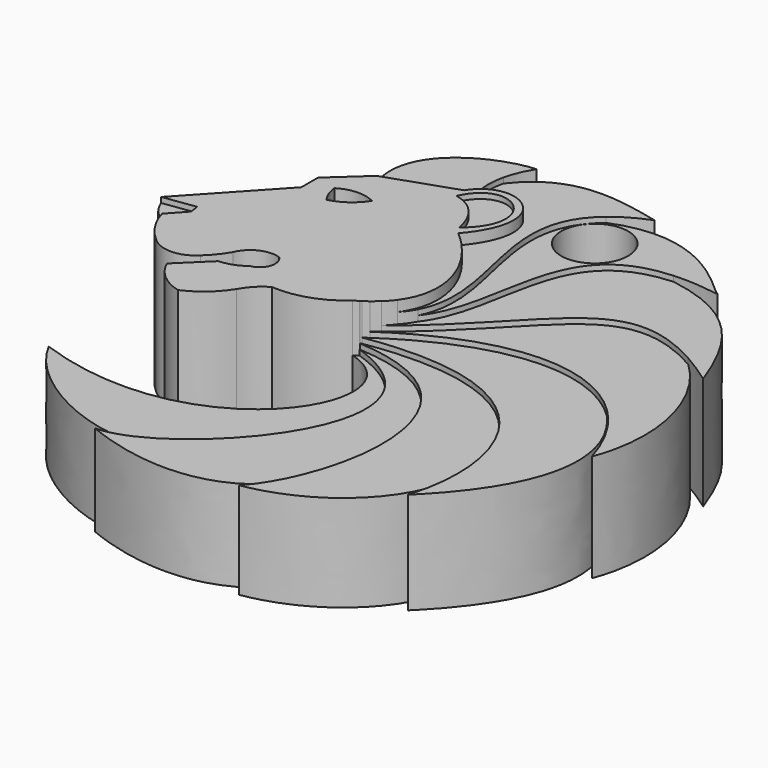
from build123d import *

# Parameters (mm, degrees)
F1_DEPTH  = 12.7
F2_DEPTH  = 12.192
F3_DEPTH  = 11.684
F4_DEPTH  = 11.176
F5_DEPTH  = 10.668
F6_DEPTH  = 10.16
F7_DEPTH  = 9.652
F8_DEPTH  = 9.144
F9_DEPTH  = 8.636
F10_DEPTH = 8.128
F11_D     = 6.35


with BuildPart() as f1:
    # F0 (on Top) → F1 (new body)
    with BuildSketch(Plane.XY):
        with BuildLine():
            add(Edge.make_bspline(
                [(-11.1693879589, 15.4890585691), (-9.0358910772, 16.2586414566), (-6.7933175268, 16.9602932942), (-4.659820645, 17.7298761817)],
                knots=[0, 0, 0, 0, 6.8844556929, 6.8844556929, 6.8844556929, 6.8844556929], degree=3))
            Line((-11.1693879589, 15.4890585691), (-14.3835674971, 12.5592015684))
            Line((-14.3835674971, 12.5592015684), (-14.3835674971, 10.5829806998))
            Line((-14.3835674971, 10.5829806998), (-21.5118955821, 2.8857458383))
            Line((-21.5118955821, 2.8857458383), (-18.4390414506, 3.3162669279))
            Line((-18.4390414506, 3.3162669279), (-18.3163823931, 2.4407850974))
            Line((-18.3163823931, 2.4407850974), (-19.7817664593, 0.8340470376))
            ThreePointArc((-19.7817664593, 0.8340470376), (-18.9497116823, -1.0488754983), (-17.610553652, -2.6123230346))
            ThreePointArc((-17.610553652, -2.6123230346), (-15.499651432, -3.497126983), (-13.388749212, -2.6123230346))
            ThreePointArc((-13.388749212, -2.6123230346), (-12.5397901674, -1.709795899), (-11.8357986212, -0.6901476299))
            ThreePointArc((-11.8357986212, -0.6901476299), (-10.5444813794, 0.6812587375), (-8.6651379243, 0.8090234478))
            ThreePointArc((-8.6651379243, 0.8090234478), (-8.293640826, -0.6607608558), (-9.4419417778, -1.6505491751))
            ThreePointArc((-9.4419417778, -1.6505491751), (-10.5476881458, -2.2643849988), (-11.7867775261, -2.5176180061))
            Line((-11.7867775261, -2.5176180061), (-14.5161636174, -5.1738950424))
            ThreePointArc((-14.5161636174, -5.1738950424), (-13.1968200936, -6.967613879), (-11.2220747396, -7.9964362085))
            ThreePointArc((-11.2220747396, -7.9964362085), (-9.3711934706, -6.8305509921), (-7.9427184537, -5.1738950424))
            ThreePointArc((-7.9427184537, -5.1738950424), (-7.1541259896, -4.0931748847), (-6.1024632305, -3.2662289525))
            ThreePointArc((-6.1024632305, -3.2662289525), (-2.8894966909, -2.8618967872), (-0.0919760266, -1.2307877726))
            add(Edge.make_bspline(
                [(-0.0919760266, -1.2307877726), (0.0699429497, -1.141482147), (0.2259351315, -1.0498688773), (0.3761062108, -0.9560615263)],
                knots=[0, 0, 0, 0, 0.3704004937, 0.3704004937, 0.3704004937, 0.3704004937], degree=3))
            add(Edge.make_bspline(
                [(0.3761062108, -0.9560615263), (0.3883062967, -0.9484405), (0.4004679626, -0.9408049925), (0.4125912651, -0.9331550645)],
                knots=[0.3704004937, 0.3704004937, 0.3704004937, 0.3704004937, 0.4004922923, 0.4004922923, 0.4004922923, 0.4004922923], degree=3))
            add(Edge.make_bspline(
                [(0.4125912651, -0.9331550645), (0.4528922713, -0.9077247172), (0.4927693348, -0.8821350148), (0.5322245374, -0.8563881943)],
                knots=[0.4004922923, 0.4004922923, 0.4004922923, 0.4004922923, 0.5005252467, 0.5005252467, 0.5005252467, 0.5005252467], degree=3))
            add(Edge.make_bspline(
                [(0.5322245374, -0.8563881943), (0.6959719522, -0.7495334573), (0.8524531288, -0.6399724786), (1.001816889, -0.5278651631)],
                knots=[0.5005252467, 0.5005252467, 0.5005252467, 0.5005252467, 0.9156831125, 0.9156831125, 0.9156831125, 0.9156831125], degree=3))
            add(Edge.make_bspline(
                [(1.001816889, -0.5278651631), (1.2344644923, -0.3532478514), (1.4498446115, -0.1724529005), (1.6485196218, 0.013915433)],
                knots=[0.9156831125, 0.9156831125, 0.9156831125, 0.9156831125, 1.5623291421, 1.5623291421, 1.5623291421, 1.5623291421], degree=3))
            add(Edge.make_bspline(
                [(1.6485196218, 0.013915433), (1.9589471774, 0.3051139392), (2.2285913403, 0.609919148), (2.4595973579, 0.9260260512)],
                knots=[1.5623291421, 1.5623291421, 1.5623291421, 1.5623291421, 2.5727065721, 2.5727065721, 2.5727065721, 2.5727065721], degree=3))
            add(Edge.make_bspline(
                [(2.4595973579, 0.9260260512), (4.9169838602, 4.2886953234), (3.0020032204, 8.9302861461), (-0.70291844, 12.0760537147)],
                knots=[2.5727065721, 2.5727065721, 2.5727065721, 2.5727065721, 13.3208588687, 13.3208588687, 13.3208588687, 13.3208588687], degree=3))
            add(Edge.make_bspline(
                [(-4.1627329755, 18.3724410466), (-1.4652454689, 21.1664148462), (4.1037596626, 17.742056332), (-0.70291844, 12.0760537147)],
                knots=[0.7954504812, 0.7954504812, 0.7954504812, 0.7954504812, 6.4608818518, 6.4608818518, 6.4608818518, 6.4608818518], degree=3))
            add(Edge.make_bspline(
                [(-4.659820645, 17.7298761817), (-4.5094891562, 17.9724617565), (-4.3424866212, 18.1862578019), (-4.1627329755, 18.3724410466)],
                knots=[0.4179206721, 0.4179206721, 0.4179206721, 0.4179206721, 0.7954504812, 0.7954504812, 0.7954504812, 0.7954504812], degree=3))
        make_face()
        with BuildLine():
            ThreePointArc((-8.9354161173, 12.14926783), (-10.1114133681, 10.8988357541), (-11.6711296141, 10.1820128039))
            ThreePointArc((-11.6711296141, 10.1820128039), (-12.1581752342, 11.0421462364), (-12.378112413, 12.0058218017))
            ThreePointArc((-12.378112413, 12.0058218017), (-10.6755355616, 12.5280548335), (-8.9354161173, 12.14926783))
        make_face(mode=Mode.SUBTRACT)
        with BuildLine():
            add(Edge.make_bspline(
                [(-4.5604612678, 16.6730117053), (-2.4926392362, 16.2594467402), (-1.5104233753, 14.4501030445), (-1.2347139418, 12.8303095698)],
                knots=[0, 0, 0, 0, 5.0820227251, 5.0820227251, 5.0820227251, 5.0820227251], degree=3))
            add(Edge.make_bspline(
                [(-4.5604612678, 16.6730117053), (-2.3030887824, 21.5151626617), (3.5729722586, 16.7764034122), (-1.2347139418, 12.8303095698)],
                knots=[0, 0, 0, 0, 5.0820227251, 5.0820227251, 5.0820227251, 5.0820227251], degree=3))
        make_face(mode=Mode.SUBTRACT)
    extrude(amount=F1_DEPTH)

    # F0 (on Top) → F2 (join)
    with BuildSketch(Plane.XY):
        with BuildLine():
            add(Edge.make_bspline(
                [(-11.1693879589, 15.4890585691), (-13.0820954219, 21.4010607451), (-6.3528451137, 24.3396740407), (-3.2055731863, 24.4787801057)],
                knots=[0, 0, 0, 0, 12.0098892185, 12.0098892185, 12.0098892185, 12.0098892185], degree=3))
            add(Edge.make_bspline(
                [(-11.1693879589, 15.4890585691), (-9.0358910772, 16.2586414566), (-6.7933175268, 16.9602932942), (-4.659820645, 17.7298761817)],
                knots=[0, 0, 0, 0, 6.8844556929, 6.8844556929, 6.8844556929, 6.8844556929], degree=3))
            add(Edge.make_bspline(
                [(-4.659820645, 17.7298761817), (-4.5094891562, 17.9724617565), (-4.3424866212, 18.1862578019), (-4.1627329755, 18.3724410466)],
                knots=[0.4179206721, 0.4179206721, 0.4179206721, 0.4179206721, 0.7954504812, 0.7954504812, 0.7954504812, 0.7954504812], degree=3))
            add(Edge.make_bspline(
                [(-4.2984893876, 21.9163451997), (-4.6150451128, 20.5448107609), (-4.4588629855, 19.353372073), (-4.1627329755, 18.3724410466)],
                knots=[2.2690149531, 2.2690149531, 2.2690149531, 2.2690149531, 6.1809005466, 6.1809005466, 6.1809005466, 6.1809005466], degree=3))
            add(Edge.make_bspline(
                [(-3.2055731863, 24.4787801057), (-3.772219094, 23.5680009015), (-4.1148772505, 22.711877706), (-4.2984893876, 21.9163451997)],
                knots=[0, 0, 0, 0, 2.2690149531, 2.2690149531, 2.2690149531, 2.2690149531], degree=3))
        make_face()
        with BuildLine():
            add(Edge.make_bspline(
                [(-4.5604612678, 16.6730117053), (-2.3030887824, 21.5151626617), (3.5729722586, 16.7764034122), (-1.2347139418, 12.8303095698)],
                knots=[0, 0, 0, 0, 5.0820227251, 5.0820227251, 5.0820227251, 5.0820227251], degree=3))
            add(Edge.make_bspline(
                [(-4.5604612678, 16.6730117053), (-2.4926392362, 16.2594467402), (-1.5104233753, 14.4501030445), (-1.2347139418, 12.8303095698)],
                knots=[0, 0, 0, 0, 5.0820227251, 5.0820227251, 5.0820227251, 5.0820227251], degree=3))
        make_face()
        with BuildLine():
            Line((-18.4390414506, 3.3162669279), (-21.5118955821, 2.8857458383))
            ThreePointArc((-21.5118955821, 2.8857458383), (-20.8413628645, 1.6958542267), (-19.7817664593, 0.8340470376))
            Line((-19.7817664593, 0.8340470376), (-18.3163823931, 2.4407850974))
            Line((-18.3163823931, 2.4407850974), (-18.4390414506, 3.3162669279))
        make_face()
    extrude(amount=F2_DEPTH)

    # F0 (on Top) → F3 (join)
    with BuildSketch(Plane.XY):
        with BuildLine():
            add(Edge.make_bspline(
                [(-4.2984893876, 21.9163451997), (-1.0731035627, 26.0543940986), (3.2028737592, 25.5064446414), (8.1157682112, 24.3074636842)],
                knots=[0, 0, 0, 0, 12.6424380297, 12.6424380297, 12.6424380297, 12.6424380297], degree=3))
            add(Edge.make_bspline(
                [(-4.2984893876, 21.9163451997), (-4.6150451128, 20.5448107609), (-4.4588629855, 19.353372073), (-4.1627329755, 18.3724410466)],
                knots=[2.2690149531, 2.2690149531, 2.2690149531, 2.2690149531, 6.1809005466, 6.1809005466, 6.1809005466, 6.1809005466], degree=3))
            add(Edge.make_bspline(
                [(-4.1627329755, 18.3724410466), (-1.4652454689, 21.1664148462), (4.1037596626, 17.742056332), (-0.70291844, 12.0760537147)],
                knots=[0.7954504812, 0.7954504812, 0.7954504812, 0.7954504812, 6.4608818518, 6.4608818518, 6.4608818518, 6.4608818518], degree=3))
            add(Edge.make_bspline(
                [(2.4595973579, 0.9260260512), (4.9169838602, 4.2886953234), (3.0020032204, 8.9302861461), (-0.70291844, 12.0760537147)],
                knots=[2.5727065721, 2.5727065721, 2.5727065721, 2.5727065721, 13.3208588687, 13.3208588687, 13.3208588687, 13.3208588687], degree=3))
            add(Edge.make_bspline(
                [(3.3733097851, 2.2130509925), (3.136478382, 1.7636919725), (2.8356580969, 1.3336096562), (2.4595973579, 0.9260260512)],
                knots=[22.5252529023, 22.5252529023, 22.5252529023, 22.5252529023, 24.0558494863, 24.0558494863, 24.0558494863, 24.0558494863], degree=3))
            add(Edge.make_bspline(
                [(4.9703974099, 22.5029311557), (-1.3523527806, 17.2353144741), (6.4658384171, 8.080751039), (3.3733097851, 2.2130509925)],
                knots=[2.5388250169, 2.5388250169, 2.5388250169, 2.5388250169, 22.5252529023, 22.5252529023, 22.5252529023, 22.5252529023], degree=3))
            add(Edge.make_bspline(
                [(8.1157682112, 24.3074636842), (6.8049009655, 23.7784753398), (5.7735602588, 23.172063083), (4.9703974099, 22.5029311557)],
                knots=[0, 0, 0, 0, 2.5388250169, 2.5388250169, 2.5388250169, 2.5388250169], degree=3))
        make_face()
    extrude(amount=F3_DEPTH)

    # F0 (on Top) → F4 (join)
    with BuildSketch(Plane.XY):
        with BuildLine():
            add(Edge.make_bspline(
                [(4.9703974099, 22.5029311557), (12.5885411188, 25.6601708268), (17.6701238379, 19.0747547895), (18.564947193, 18.7362164876)],
                knots=[0, 0, 0, 0, 14.1067332574, 14.1067332574, 14.1067332574, 14.1067332574], degree=3))
            add(Edge.make_bspline(
                [(4.9703974099, 22.5029311557), (-1.3523527806, 17.2353144741), (6.4658384171, 8.080751039), (3.3733097851, 2.2130509925)],
                knots=[2.5388250169, 2.5388250169, 2.5388250169, 2.5388250169, 22.5252529023, 22.5252529023, 22.5252529023, 22.5252529023], degree=3))
            add(Edge.make_bspline(
                [(14.170598163, 19.0099079182), (3.8144224279, 18.4202500881), (7.4430683048, 7.3284264398), (3.3733097851, 2.2130509925)],
                knots=[2.4152881684, 2.4152881684, 2.4152881684, 2.4152881684, 22.4455083505, 22.4455083505, 22.4455083505, 22.4455083505], degree=3))
            add(Edge.make_bspline(
                [(18.564947193, 18.7362164876), (16.8714794963, 18.9994101905), (15.4193686955, 19.081010161), (14.170598163, 19.0099079182)],
                knots=[0, 0, 0, 0, 2.4152881684, 2.4152881684, 2.4152881684, 2.4152881684], degree=3))
        make_face()
    extrude(amount=F4_DEPTH)

    # F0 (on Top) → F5 (join)
    with BuildSketch(Plane.XY):
        with BuildLine():
            add(Edge.make_bspline(
                [(3.3733097851, 2.2130509925), (3.136478382, 1.7636919725), (2.8356580969, 1.3336096562), (2.4595973579, 0.9260260512)],
                knots=[22.5252529023, 22.5252529023, 22.5252529023, 22.5252529023, 24.0558494863, 24.0558494863, 24.0558494863, 24.0558494863], degree=3))
            add(Edge.make_bspline(
                [(1.6485196218, 0.013915433), (1.9589471774, 0.3051139392), (2.2285913403, 0.609919148), (2.4595973579, 0.9260260512)],
                knots=[1.5623291421, 1.5623291421, 1.5623291421, 1.5623291421, 2.5727065721, 2.5727065721, 2.5727065721, 2.5727065721], degree=3))
            add(Edge.make_bspline(
                [(22.6549280171, 10.1252051744), (13.0098039696, 15.5501310783), (11.389011228, 7.7025797188), (1.6485196218, 0.013915433)],
                knots=[2.1575984107, 2.1575984107, 2.1575984107, 2.1575984107, 25.310768826, 25.310768826, 25.310768826, 25.310768826], degree=3))
            add(Edge.make_bspline(
                [(25.5734730299, 8.2519464195), (24.5222316642, 8.9988705064), (23.553738156, 9.6196669998), (22.6549280171, 10.1252051744)],
                knots=[0, 0, 0, 0, 2.1575984107, 2.1575984107, 2.1575984107, 2.1575984107], degree=3))
            add(Edge.make_bspline(
                [(14.170598163, 19.0099079182), (20.1485980516, 18.0587443329), (23.2340000357, 14.8317161947), (25.5734730299, 8.2519464195)],
                knots=[0, 0, 0, 0, 15.6767117355, 15.6767117355, 15.6767117355, 15.6767117355], degree=3))
            add(Edge.make_bspline(
                [(14.170598163, 19.0099079182), (3.8144224279, 18.4202500881), (7.4430683048, 7.3284264398), (3.3733097851, 2.2130509925)],
                knots=[2.4152881684, 2.4152881684, 2.4152881684, 2.4152881684, 22.4455083505, 22.4455083505, 22.4455083505, 22.4455083505], degree=3))
        make_face()
    extrude(amount=F5_DEPTH)

    # F0 (on Top) → F6 (join)
    with BuildSketch(Plane.XY):
        with BuildLine():
            add(Edge.make_bspline(
                [(22.6549280171, 10.1252051744), (13.0098039696, 15.5501310783), (11.389011228, 7.7025797188), (1.6485196218, 0.013915433)],
                knots=[2.1575984107, 2.1575984107, 2.1575984107, 2.1575984107, 25.310768826, 25.310768826, 25.310768826, 25.310768826], degree=3))
            add(Edge.make_bspline(
                [(1.001816889, -0.5278651631), (1.2344644923, -0.3532478514), (1.4498446115, -0.1724529005), (1.6485196218, 0.013915433)],
                knots=[0.9156831125, 0.9156831125, 0.9156831125, 0.9156831125, 1.5623291421, 1.5623291421, 1.5623291421, 1.5623291421], degree=3))
            add(Edge.make_bspline(
                [(22.6325808509, 0.5549785794), (17.9641499018, 5.2059017585), (10.1420641386, 5.6621227178), (1.001816889, -0.5278651631)],
                knots=[6.8059633731, 6.8059633731, 6.8059633731, 6.8059633731, 25.9591722565, 25.9591722565, 25.9591722565, 25.9591722565], degree=3))
            add(Edge.make_bspline(
                [(26.332285884, -5.8820280246), (25.5521633694, -3.2800297818), (24.2914762476, -1.0976955495), (22.6325808509, 0.5549785794)],
                knots=[0, 0, 0, 0, 6.8059633731, 6.8059633731, 6.8059633731, 6.8059633731], degree=3))
            add(Edge.make_bspline(
                [(22.6549280171, 10.1252051744), (26.5182542383, 6.5773469396), (28.5817409634, 0), (26.332285884, -5.8820280246)],
                knots=[0, 0, 0, 0, 16.4242039555, 16.4242039555, 16.4242039555, 16.4242039555], degree=3))
        make_face()
    extrude(amount=F6_DEPTH)

    # F0 (on Top) → F7 (join)
    with BuildSketch(Plane.XY):
        with BuildLine():
            add(Edge.make_bspline(
                [(22.6325808509, 0.5549785794), (17.9641499018, 5.2059017585), (10.1420641386, 5.6621227178), (1.001816889, -0.5278651631)],
                knots=[6.8059633731, 6.8059633731, 6.8059633731, 6.8059633731, 25.9591722565, 25.9591722565, 25.9591722565, 25.9591722565], degree=3))
            add(Edge.make_bspline(
                [(0.5322245374, -0.8563881943), (0.6959719522, -0.7495334573), (0.8524531288, -0.6399724786), (1.001816889, -0.5278651631)],
                knots=[0.5005252467, 0.5005252467, 0.5005252467, 0.5005252467, 0.9156831125, 0.9156831125, 0.9156831125, 0.9156831125], degree=3))
            add(Edge.make_bspline(
                [(19.6146675695, -12.0093502607), (18.9924851882, -5.1508120753), (13.7391758946, 1.2639838238), (0.5322245374, -0.8563881943)],
                knots=[6.1189017441, 6.1189017441, 6.1189017441, 6.1189017441, 25.4194126765, 25.4194126765, 25.4194126765, 25.4194126765], degree=3))
            add(Edge.make_bspline(
                [(18.9158729205, -18.4084704199), (19.5436978026, -16.4027187125), (19.8119200086, -14.1837342142), (19.6146675695, -12.0093502607)],
                knots=[0, 0, 0, 0, 6.1189017441, 6.1189017441, 6.1189017441, 6.1189017441], degree=3))
            add(Edge.make_bspline(
                [(22.6325808509, 0.5549785794), (29.9385773434, -7.9657113008), (20.3760749588, -16.9180171618), (18.9158729205, -18.4084704199)],
                knots=[0, 0, 0, 0, 19.3242416615, 19.3242416615, 19.3242416615, 19.3242416615], degree=3))
        make_face()
    extrude(amount=F7_DEPTH)

    # F0 (on Top) → F8 (join)
    with BuildSketch(Plane.XY):
        with BuildLine():
            add(Edge.make_bspline(
                [(19.6146675695, -12.0093502607), (18.9924851882, -5.1508120753), (13.7391758946, 1.2639838238), (0.5322245374, -0.8563881943)],
                knots=[6.1189017441, 6.1189017441, 6.1189017441, 6.1189017441, 25.4194126765, 25.4194126765, 25.4194126765, 25.4194126765], degree=3))
            add(Edge.make_bspline(
                [(0.4125912651, -0.9331550645), (0.4528922713, -0.9077247172), (0.4927693348, -0.8821350148), (0.5322245374, -0.8563881943)],
                knots=[0.4004922923, 0.4004922923, 0.4004922923, 0.4004922923, 0.5005252467, 0.5005252467, 0.5005252467, 0.5005252467], degree=3))
            add(Edge.make_bspline(
                [(10.1539883978, -20.094470712), (13.1368582256, -12.9565616021), (12.8948233592, -1.643045671), (0.4125912651, -0.9331550645)],
                knots=[4.6863856747, 4.6863856747, 4.6863856747, 4.6863856747, 24.4244565784, 24.4244565784, 24.4244565784, 24.4244565784], degree=3))
            add(Edge.make_bspline(
                [(7.6046087293, -24.2747266471), (8.555754569, -23.2485714694), (9.4457693171, -21.789215612), (10.1539883978, -20.094470712)],
                knots=[0, 0, 0, 0, 4.6863856747, 4.6863856747, 4.6863856747, 4.6863856747], degree=3))
            add(Edge.make_bspline(
                [(19.6146675695, -12.0093502607), (19.5076920839, -18.4084704199), (13.8489719926, -23.2652139544), (7.6046087293, -24.2747266471)],
                knots=[0, 0, 0, 0, 17.1662742389, 17.1662742389, 17.1662742389, 17.1662742389], degree=3))
        make_face()
    extrude(amount=F8_DEPTH)

    # F0 (on Top) → F9 (join)
    with BuildSketch(Plane.XY):
        with BuildLine():
            add(Edge.make_bspline(
                [(10.1539883978, -20.094470712), (13.1368582256, -12.9565616021), (12.8948233592, -1.643045671), (0.4125912651, -0.9331550645)],
                knots=[4.6863856747, 4.6863856747, 4.6863856747, 4.6863856747, 24.4244565784, 24.4244565784, 24.4244565784, 24.4244565784], degree=3))
            add(Edge.make_bspline(
                [(0.3761062108, -0.9560615263), (0.3883062967, -0.9484405), (0.4004679626, -0.9408049925), (0.4125912651, -0.9331550645)],
                knots=[0.3704004937, 0.3704004937, 0.3704004937, 0.3704004937, 0.4004922923, 0.4004922923, 0.4004922923, 0.4004922923], degree=3))
            add(Edge.make_bspline(
                [(-4.0027434797, -22.2563676913), (3.4380167689, -18.8674841154), (13.3337408235, -5.3035885366), (0.3761062108, -0.9560615263)],
                knots=[3.0087308599, 3.0087308599, 3.0087308599, 3.0087308599, 23.2951512614, 23.2951512614, 23.2951512614, 23.2951512614], degree=3))
            add(Edge.make_bspline(
                [(-7.0688501, -23.0295002667), (-6.1558589286, -23.037779847), (-5.10630165, -22.7589816761), (-4.0027434797, -22.2563676913)],
                knots=[0, 0, 0, 0, 3.0087308599, 3.0087308599, 3.0087308599, 3.0087308599], degree=3))
            add(Edge.make_bspline(
                [(10.1539883978, -20.094470712), (5.8581745467, -26.6000382924), (-2.3815631866, -24.9686107246), (-7.0688501, -23.0295002667)],
                knots=[0, 0, 0, 0, 17.471135178, 17.471135178, 17.471135178, 17.471135178], degree=3))
        make_face()
    extrude(amount=F9_DEPTH)

    # F0 (on Top) → F10 (join)
    with BuildSketch(Plane.XY):
        with BuildLine():
            add(Edge.make_bspline(
                [(-4.0027434797, -22.2563676913), (3.4380167689, -18.8674841154), (13.3337408235, -5.3035885366), (0.3761062108, -0.9560615263)],
                knots=[3.0087308599, 3.0087308599, 3.0087308599, 3.0087308599, 23.2951512614, 23.2951512614, 23.2951512614, 23.2951512614], degree=3))
            add(Edge.make_bspline(
                [(-0.0919760266, -1.2307877726), (0.0699429497, -1.141482147), (0.2259351315, -1.0498688773), (0.3761062108, -0.9560615263)],
                knots=[0, 0, 0, 0, 0.3704004937, 0.3704004937, 0.3704004937, 0.3704004937], degree=3))
            add(Edge.make_bspline(
                [(-18.5140000176, -14.1879650193), (0, -20.7515408033), (9.2667043209, -3.8878359114), (-0.0919760266, -1.2307877726)],
                knots=[0, 0, 0, 0, 22.5224201658, 22.5224201658, 22.5224201658, 22.5224201658], degree=3))
            add(Edge.make_bspline(
                [(-18.5140000176, -14.1879650193), (-16.2431599092, -18.6394317436), (-9.4661401444, -22.5514181335), (-4.0027434797, -22.2563676913)],
                knots=[0, 0, 0, 0, 16.6034842122, 16.6034842122, 16.6034842122, 16.6034842122], degree=3))
        make_face()
    extrude(amount=F10_DEPTH)

    # F11 (through all)
    with Locations(Plane(origin=(0, 0, 0), x_dir=(1, 0, 0), z_dir=(0, 0, -1))):
        with Locations((6.3876989298, -19.3796586245)):
            Hole(F11_D / 2)


solid = f1.part
